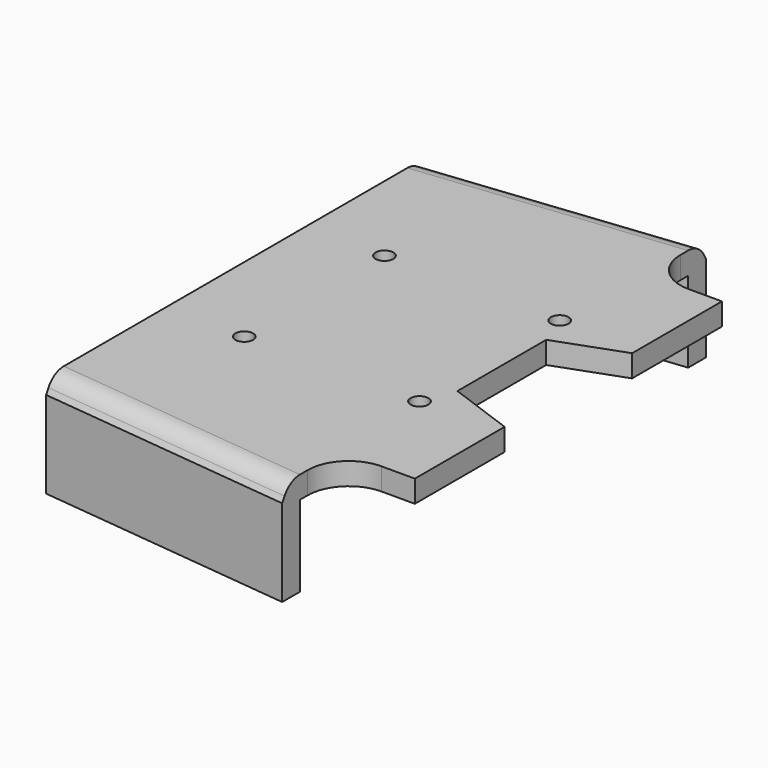
from build123d import *

# Parameters (mm, degrees)
SKETCH047_R          = 0.8
POCKET027_DEPTH      = 6.301
POCKET027_DEPTH_BACK = 3.001
POCKET028_DEPTH      = 6.301
POCKET028_DEPTH_BACK = 3.001
POCKET030_DEPTH      = 123.042253
POCKET030_DEPTH_BACK = 119.742253


with BuildPart() as part:
    # Sketch046 → AdditiveLoft section 0
    with BuildSketch(Plane.YZ.offset(-15)):
        with BuildLine():
            Line((-19.35, 3), (19.35, 3))
            ThreePointArc((21.082051, 2), (20.35, 2.732051), (19.35, 3))
            Line((21.082051, 2), (21.35, 1.535898))
            Line((21.35, 1.535898), (21.35, -6.3))
            Line((21.35, -6.3), (19.35, -6.3))
            Line((19.35, 1), (19.35, -6.3))
            Line((-19.35, 1), (19.35, 1))
            Line((-19.35, -6.3), (-19.35, 1))
            Line((-19.35, -6.3), (-21.35, -6.3))
            Line((-21.35, -6.3), (-21.35, 1.535898))
            Line((-21.082051, 2), (-21.35, 1.535898))
            ThreePointArc((-19.35, 3), (-20.35, 2.732051), (-21.082051, 2))
        make_face()
    # Sketch058 → AdditiveLoft section 1
    with BuildSketch(Plane.YZ.offset(15)):
        with BuildLine():
            Line((-22.6, 3), (22.6, 3))
            ThreePointArc((24.332051, 2), (23.6, 2.732051), (22.6, 3))
            Line((24.332051, 2), (24.6, 1.535898))
            Line((24.6, 1.535898), (24.6, -6.3))
            Line((24.6, -6.3), (22.6, -6.3))
            Line((22.6, 1), (22.6, -6.3))
            Line((-22.6, 1), (22.6, 1))
            Line((-22.6, -6.3), (-22.6, 1))
            Line((-22.6, -6.3), (-24.6, -6.3))
            Line((-24.6, -6.3), (-24.6, 1.535898))
            Line((-24.332051, 2), (-24.6, 1.535898))
            ThreePointArc((-22.6, 3), (-23.6, 2.732051), (-24.332051, 2))
        make_face()
    loft()

    # Sketch047 → Pocket027 (cut, two sides)
    with BuildSketch(Plane.XY) as pocket027_sk:
        with Locations((7.9, 7.9)):
            Circle(SKETCH047_R)
        with Locations((-7.9, 7.9)):
            Circle(SKETCH047_R)
        with Locations((-7.9, -7.9)):
            Circle(SKETCH047_R)
        with Locations((7.9, -7.9)):
            Circle(SKETCH047_R)
    extrude(amount=-POCKET027_DEPTH, mode=Mode.SUBTRACT)
    extrude(pocket027_sk.sketch, amount=POCKET027_DEPTH_BACK, mode=Mode.SUBTRACT)

    # Sketch048 → Pocket028 (cut, two sides)
    with BuildSketch(Plane.XY) as pocket028_sk:
        Polygon((9, 5), (16, 7.547792), (16, -7.547792), (9, -5), align=None)
    extrude(amount=-POCKET028_DEPTH, mode=Mode.SUBTRACT)
    extrude(pocket028_sk.sketch, amount=POCKET028_DEPTH_BACK, mode=Mode.SUBTRACT)

    # Sketch050 → Pocket030 (cut, two sides)
    with BuildSketch(Plane.XY) as pocket030_sk:
        with BuildLine():
            Line((8.3, 30), (18.3, 30))
            Line((18.3, 30), (18.3, 17.3))
            Line((12, 17.3), (18.3, 17.3))
            ThreePointArc((8.3, 21), (9.383705, 18.383705), (12, 17.3))
            Line((8.3, 21), (8.3, 30))
        make_face()
    pocket030 = extrude(amount=-POCKET030_DEPTH, mode=Mode.SUBTRACT) + extrude(pocket030_sk.sketch, amount=POCKET030_DEPTH_BACK, mode=Mode.SUBTRACT)

    # Mirrored011: Pocket030 across XZ
    add(pocket030.mirror(Plane.XZ), mode=Mode.SUBTRACT)


solid = part.part
